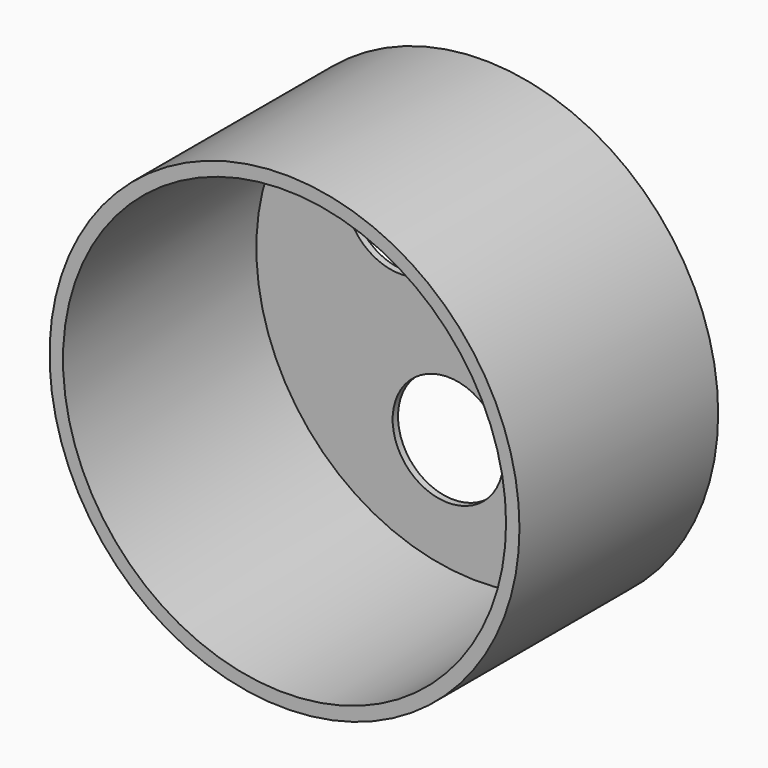
from build123d import *

# Parameters (mm, degrees)
F0_R     = 889
F1_DEPTH = 914.4
F0_R_2   = 209.55
F2_DEPTH = 25.4


with BuildPart() as f1:
    # F0 (on Front) → F1 (new body)
    with BuildSketch(Plane.XZ):
        Circle(F0_R)
        with BuildLine():
            ThreePointArc((-586.1689197433, 599.1537678485), (325.0018857416, 772.6273450147), (838.2, 0))
            ThreePointArc((838.2, 0), (-325.0018857416, -772.6273450147), (-586.1689197433, 599.1537678485))
        make_face(mode=Mode.SUBTRACT)
    extrude(amount=F1_DEPTH)

    # F0 (on Front) → F2 (join)
    with BuildSketch(Plane.XZ):
        Circle(F0_R)
        with BuildLine():
            ThreePointArc((-586.1689197433, 599.1537678485), (325.0018857416, 772.6273450147), (838.2, 0))
            ThreePointArc((838.2, 0), (-325.0018857416, -772.6273450147), (-586.1689197433, 599.1537678485))
        make_face(mode=Mode.SUBTRACT)
        with BuildLine():
            ThreePointArc((-586.1689197433, 599.1537678485), (-325.0018857416, -772.6273450147), (838.2, 0))
            ThreePointArc((838.2, 0), (325.0018857416, 772.6273450147), (-586.1689197433, 599.1537678485))
        make_face()
        with Locations((-112.8989619291, -403.6070296654)):
            Circle(F0_R_2, mode=Mode.SUBTRACT)
        with BuildLine():
            ThreePointArc((-146.5422299358, 149.7884419621), (-442.8729018337, 153.0346539884), (-439.6266898075, 449.3653258863))
            ThreePointArc((-439.6266898075, 449.3653258863), (-211.8339884362, 492.7337201779), (-83.5344598716, 299.5768839242))
            ThreePointArc((-83.5344598716, 299.5768839242), (-99.927623618, 218.3264124888), (-146.5422299358, 149.7884419621))
        make_face(mode=Mode.SUBTRACT)
        with Locations((405.9834218008, 104.0301457412)):
            Circle(F0_R_2, mode=Mode.SUBTRACT)
    extrude(amount=-F2_DEPTH)


solid = f1.part
